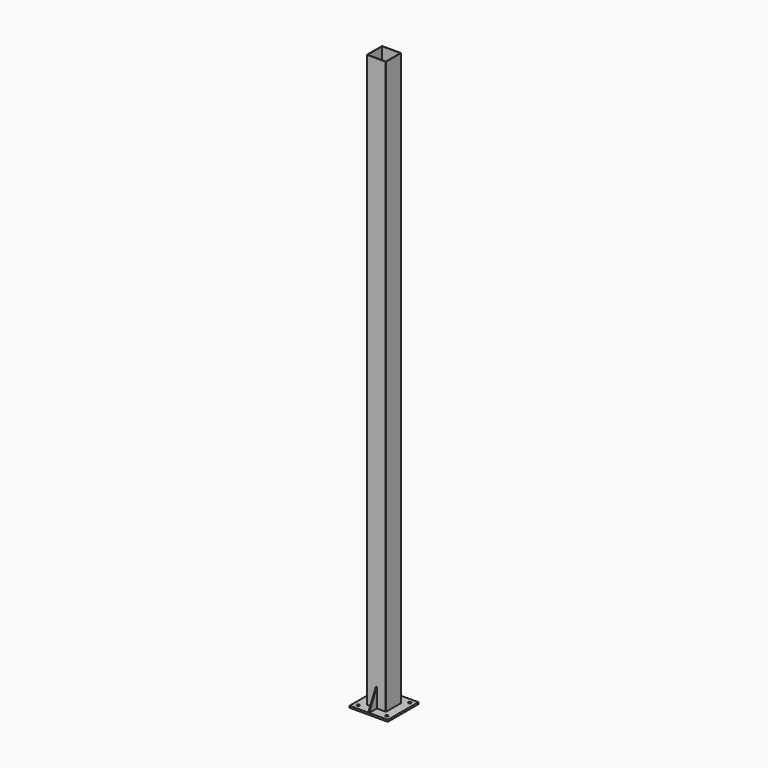
from build123d import *

# Parameters (mm, degrees)
F0_W          = 200
F0_H          = 200
F0_R          = 6.35
F0_R_2        = 7.318903
F1_DEPTH      = 10
F2_W          = 96
F2_H          = 96
F3_DEPTH      = 3000
F5_DEPTH      = 2.5
F5_DEPTH_BACK = 2.5


with BuildPart() as f1:
    # F0 (on Top) → F1 (new body)
    with BuildSketch(Plane.XY):
        Rectangle(F0_W, F0_H)
        with Locations((-75, -75)):
            Circle(F0_R, mode=Mode.SUBTRACT)
        with Locations((75, -75)):
            Circle(F0_R_2, mode=Mode.SUBTRACT)
        with Locations((-75, 75)):
            Circle(F0_R, mode=Mode.SUBTRACT)
        with Locations((75, 75)):
            Circle(F0_R_2, mode=Mode.SUBTRACT)
    extrude(amount=F1_DEPTH)

    # F2 (on face) → F3 (join)
    with BuildSketch(Plane.XY.offset(10)):
        with BuildLine():
            ThreePointArc((50, 48), (49.414214, 49.414214), (48, 50))
            Line((48, 50), (-48, 50))
            ThreePointArc((-48, 50), (-49.414214, 49.414214), (-50, 48))
            Line((-50, 48), (-50, -48))
            ThreePointArc((-50, -48), (-49.414214, -49.414214), (-48, -50))
            Line((-48, -50), (48, -50))
            ThreePointArc((48, -50), (49.414214, -49.414214), (50, -48))
            Line((50, -48), (50, 48))
        make_face()
        Rectangle(F2_W, F2_H, mode=Mode.SUBTRACT)
    extrude(amount=F3_DEPTH)

    # F4 (on Right) → F5 (join, two sides)
    with BuildSketch(Plane.YZ) as f5_sk:
        Polygon((-50, 110), (-100, 10), (-50, 10), align=None)
    extrude(amount=F5_DEPTH)
    extrude(f5_sk.sketch, amount=-F5_DEPTH_BACK)


solid = f1.part
